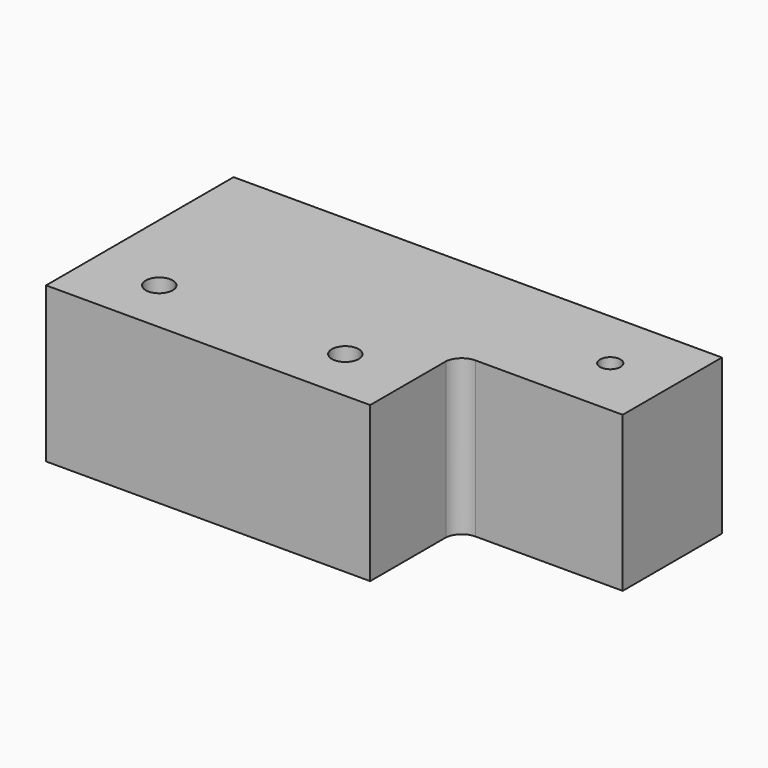
from build123d import *

# Parameters (mm, degrees)
F1_DEPTH  = 31.75
F2_W      = 25.4
F2_H      = 25.4
F3_DEPTH  = 10
F4_R      = 5
F6_D      = 5.5
F8_D      = 4.2
F11_DEPTH = 5


with BuildPart() as f1:
    # F0 (on Top) → F1 (new body)
    with BuildSketch(Plane.XY):
        with BuildLine():
            Line((0, 48), (0, 0))
            Line((0, 0), (66.3673695676, 0))
            Line((66.3673695676, 0), (66.3673695676, 19.4482603496))
            ThreePointArc((66.3673695676, 19.4482603496), (67.5014803837, 21.6950829682), (69.85, 22.6))
            Line((69.85, 22.6), (100, 22.6))
            Line((100, 22.6), (100, 48))
            Line((100, 48), (0, 48))
        make_face()
    extrude(amount=F1_DEPTH)

    # F2 (on face) → F3 (cut)
    with BuildSketch(Plane(origin=(0, 0, 0), x_dir=(1, 0, 0), z_dir=(0, 0, -1))):
        with Locations((34.925, -35.3)):
            Rectangle(F2_W, F2_H)
    extrude(amount=-F3_DEPTH, mode=Mode.SUBTRACT)

    # F4
    f4_edges = [f1.edges().sort_by_distance(p)[0] for p in [
        (22.225, 22.6, 5),
        (47.625, 22.6, 5),
    ]]
    fillet(f4_edges, radius=F4_R)

    # F6 (through all)
    with Locations(Plane.XY.offset(31.75)):
        with Locations((14.1336847838, 11.3), (52.2336847838, 11.3)):
            Hole(F6_D / 2)

    # F8 (through all)
    with Locations(Plane.XY.offset(31.75)):
        with Locations((87.3, 35.3)):
            Hole(F8_D / 2)

    # F10 (on face) → F11 (cut)
    with BuildSketch(Plane(origin=(0, 0, 0), x_dir=(1, 0, 0), z_dir=(0, 0, -1))):
        with BuildLine():
            Line((17.225, -27.6), (17.225, -48))
            Line((17.225, -48), (52.625, -48))
            Line((52.625, -48), (52.625, -27.6))
            ThreePointArc((52.625, -27.6), (51.1605339059, -24.0644660941), (47.625, -22.6))
            Line((47.625, -22.6), (22.225, -22.6))
            ThreePointArc((22.225, -22.6), (18.6894660941, -24.0644660941), (17.225, -27.6))
        make_face()
    extrude(amount=-F11_DEPTH, mode=Mode.SUBTRACT)


solid = f1.part
